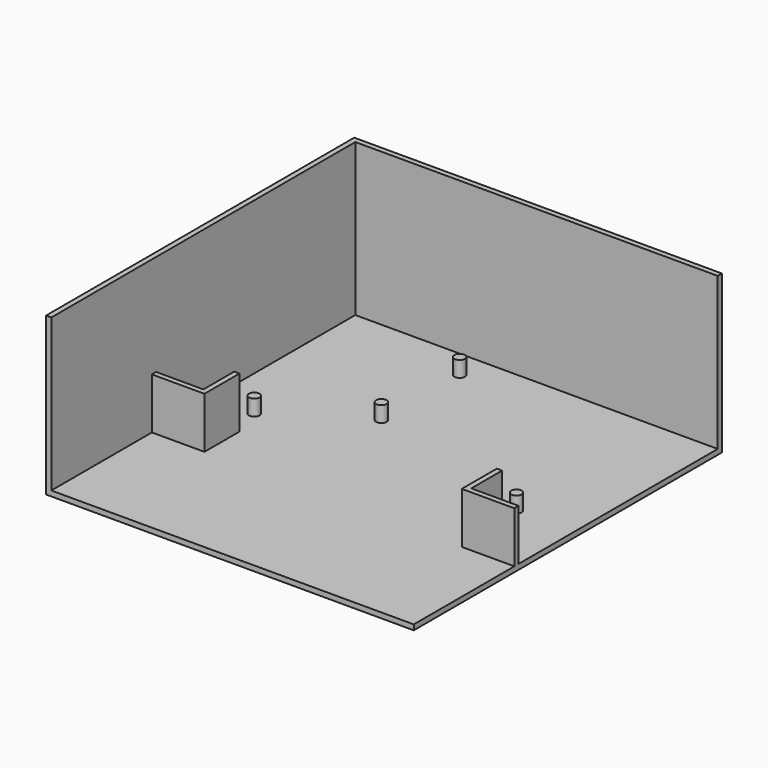
from build123d import *

# Parameters (mm, degrees)
F0_W     = 105
F0_H     = 110
F1_DEPTH = 1.5
F2_W     = 105
F2_H     = 1.5
F3_DEPTH = 43.5
F4_W     = 1.5
F4_H     = 108.5
F5_DEPTH = 43.5
F6_R     = 1.5
F7_DEPTH = 4.5
F8_W     = 1.5
F8_H     = 11
F9_DEPTH = 14.6


with BuildPart() as f1:
    # F0 (on Top) → F1 (new body)
    with BuildSketch(Plane.XY):
        Rectangle(F0_W, F0_H)
    extrude(amount=F1_DEPTH)

    # F2 (on face) → F3 (join)
    with BuildSketch(Plane.XY.offset(1.5)):
        with Locations((0, 54.25)):
            Rectangle(F2_W, F2_H)
    extrude(amount=F3_DEPTH)

    # F4 (on face) → F5 (join)
    with BuildSketch(Plane.XY.offset(1.5)):
        with Locations((-51.75, -0.75)):
            Rectangle(F4_W, F4_H)
    extrude(amount=F5_DEPTH)

    # F6 (on face) → F7 (join)
    with BuildSketch(Plane.XY.offset(1.5)):
        with Locations((-14.8, 45.5)):
            Circle(F6_R)
        with Locations((-14.8, 17.56)):
            Circle(F6_R)
        with Locations((-38.9, 2.3)):
            Circle(F6_R)
        with Locations((36, 2.3)):
            Circle(F6_R)
    extrude(amount=F7_DEPTH)

    # F8 (on face) → F9 (join)
    with BuildSketch(Plane.XY.offset(1.5)):
        Polygon((-37.5, -17.6), (-51, -17.6), (-51, -19.1), (-36, -19.1), (-36, -17.6), align=None)
        with Locations((-36.75, -12.1)):
            Rectangle(F8_W, F8_H)
        Polygon((37.5, -19.1), (52.5, -19.1), (52.5, -17.6), (39, -17.6), (37.5, -17.6), align=None)
        with Locations((38.25, -12.1)):
            Rectangle(F8_W, F8_H)
    extrude(amount=F9_DEPTH)


solid = f1.part
